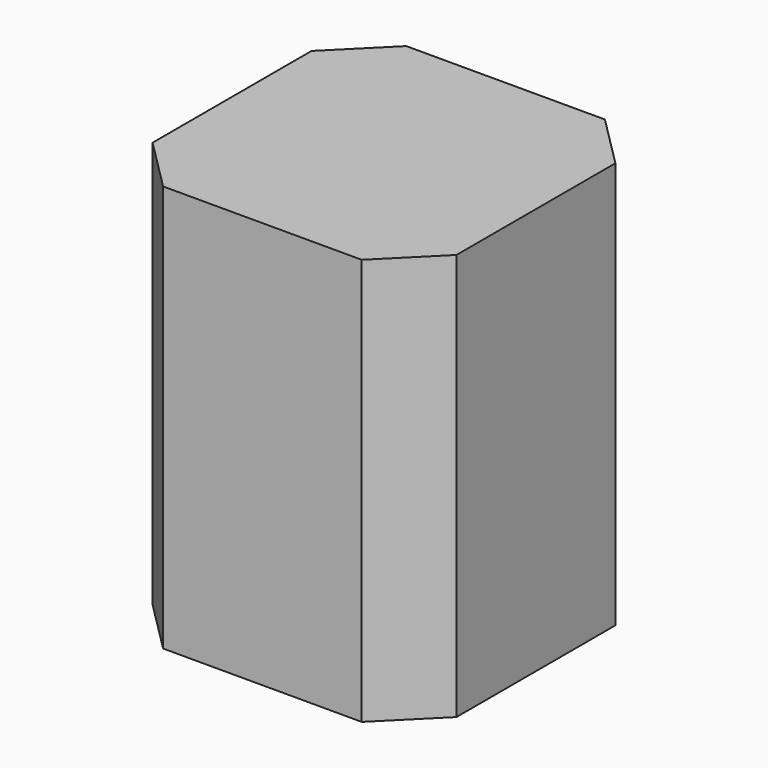
from build123d import *

# Parameters (mm, degrees)
F0_W     = 12.7
F0_H     = 12.7
F0_W_2   = 10.05
F0_H_2   = 10.05
F1_DEPTH = 17
F2_DEPTH = 17
F3_DEPTH = 11
F4_SIZE  = 2.2
F5_R     = 1.9


with BuildPart() as f1:
    # F0 (on Top) → F1 (new body)
    with BuildSketch(Plane.XY):
        with Locations((-24.496685, -26.072449)):
            Rectangle(F0_W, F0_H)
        with Locations((-24.496685, -26.072449)):
            Rectangle(F0_W_2, F0_H_2, mode=Mode.SUBTRACT)
    extrude(amount=F1_DEPTH)

    # F0 (on Top) → F2 (join)
    with BuildSketch(Plane.XY):
        with Locations((-24.496685, -26.072449)):
            Rectangle(F0_W_2, F0_H_2)
    extrude(amount=F2_DEPTH)

    # F0 (on Top) → F3 (cut)
    with BuildSketch(Plane.XY):
        with Locations((-24.496685, -26.072449)):
            Rectangle(F0_W_2, F0_H_2)
    extrude(amount=F3_DEPTH, mode=Mode.SUBTRACT)

    # F4
    f4_edges = [f1.edges().sort_by_distance(p)[0] for p in [
        (-18.146685, -19.722449, 8.5),
        (-30.846685, -19.722449, 8.5),
        (-30.846685, -32.422449, 8.5),
        (-18.146685, -32.422449, 8.5),
    ]]
    chamfer(f4_edges, length=F4_SIZE)

    # F5
    f5_edges = [f1.edges().sort_by_distance(p)[0] for p in [
        (-19.471685, -31.097449, 5.5),
        (-19.471685, -21.047449, 5.5),
        (-29.521685, -21.047449, 5.5),
        (-29.521685, -31.097449, 5.5),
    ]]
    fillet(f5_edges, radius=F5_R)


solid = f1.part
